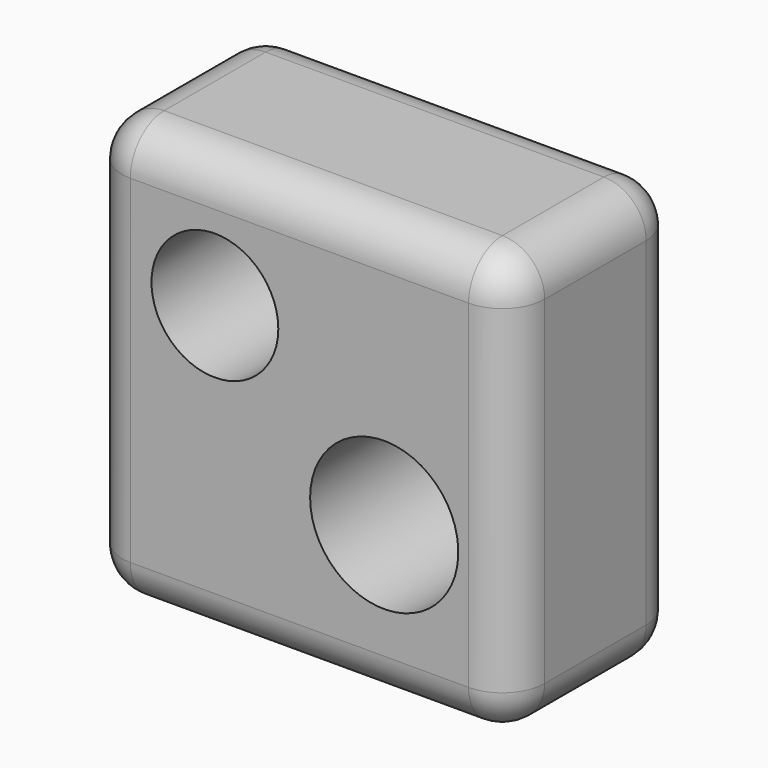
from build123d import *

# Parameters (mm, degrees)
F0_W     = 50
F0_H     = 50
F1_DEPTH = 25
F2_R     = 7.5
F3_DEPTH = 25
F4_R     = 5
F5_R     = 8.7642434369
F6_DEPTH = 25.001


with BuildPart() as f1:
    # F0 (on Front) → F1 (new body)
    with BuildSketch(Plane.XZ):
        with Locations((25, 25)):
            Rectangle(F0_W, F0_H)
    extrude(amount=F1_DEPTH)

    # F2 (on face) → F3 (cut)
    with BuildSketch(Plane.XZ.offset(25)):
        with Locations((15, 35)):
            Circle(F2_R)
    extrude(amount=-F3_DEPTH, mode=Mode.SUBTRACT)

    # F4
    f4_edges = [f1.edges().sort_by_distance(p)[0] for p in [
        (0, -12.5, 50),
        (0, -12.5, 0),
        (0, 0, 25),
        (0, -25, 25),
        (50, -12.5, 50),
        (25, 0, 50),
        (25, -25, 50),
        (50, -12.5, 0),
        (50, 0, 25),
        (50, -25, 25),
        (25, 0, 0),
        (25, -25, 0),
    ]]
    fillet(f4_edges, radius=F4_R)

    # F5 (on face) → F6 (cut, through all)
    with BuildSketch(Plane(origin=(0, 0, 0), x_dir=(-1, 0, 0), z_dir=(0, 1, 0))):
        with Locations((-35.0254848599, 18.6689179391)):
            Circle(F5_R)
    extrude(amount=-F6_DEPTH, mode=Mode.SUBTRACT)


solid = f1.part
